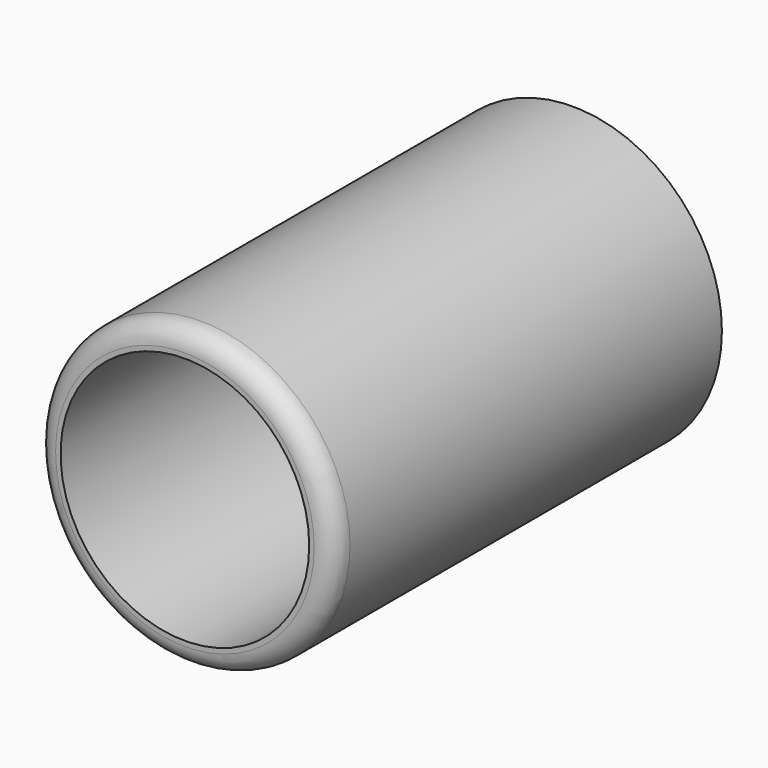
from build123d import *

# Parameters (mm, degrees)
F0_R     = 38.1
F0_R_2   = 31.75
F1_DEPTH = 123.825
F2_DEPTH = 9.525
F3_R     = 5.08


with BuildPart() as f1:
    # F0 (on Front) → F1 (new body)
    with BuildSketch(Plane.XZ):
        Circle(F0_R)
        Circle(F0_R_2, mode=Mode.SUBTRACT)
    extrude(amount=F1_DEPTH)

    # F3
    f3_edges = [f1.edges().sort_by_distance(p)[0] for p in [
        (-38.1, -123.825, 0),
    ]]
    fillet(f3_edges, radius=F3_R)


with BuildPart() as f2:
    # F0 (on Front) → F2 (new body)
    with BuildSketch(Plane.XZ):
        Circle(F0_R_2)
    extrude(amount=F2_DEPTH)


solid = Compound([f1.part, f2.part])
